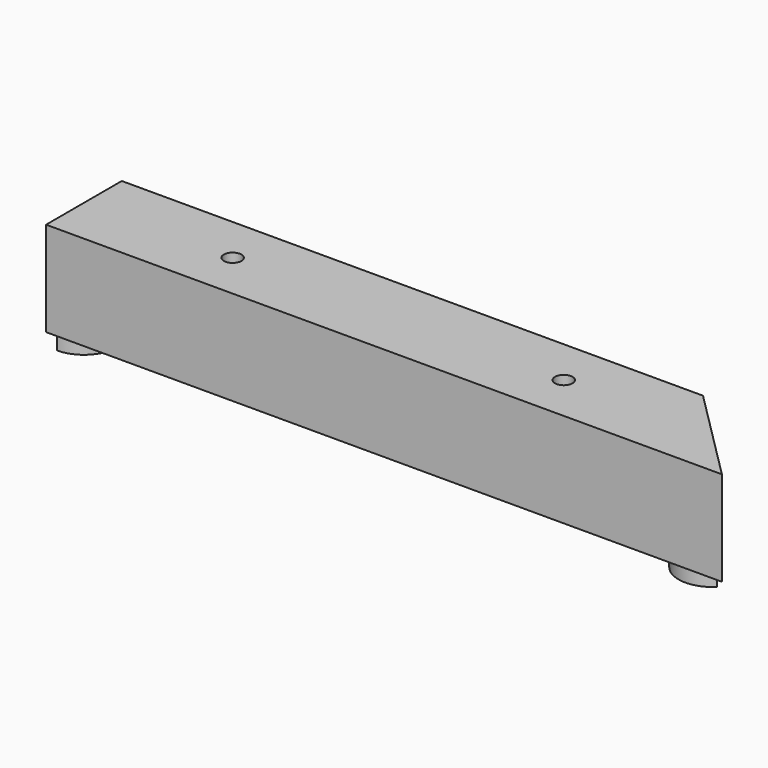
from build123d import *

# Parameters (mm, degrees)
F1_DEPTH = 35
F2_W     = 24
F2_H     = 24
F3_DEPTH = 25.5
F5_D     = 6.5
F5_DEPTH = 35
F5_TIP   = 1.9527970118
F7_DEPTH = 8
F9_DEPTH = 8


with BuildPart() as f1:
    # F0 (on Top) → F1 (new body)
    with BuildSketch(Plane.XY):
        Polygon((-125, -17.5), (125, -17.5), (90, 17.5), (-125, 17.5), align=None)
    extrude(amount=F1_DEPTH)

    # F2 (on face) → F3 (cut)
    with BuildSketch(Plane(origin=(-125, 0, 0), x_dir=(0, -1, 0), z_dir=(-1, 0, 0))):
        with Locations((0, 17.5)):
            Rectangle(F2_W, F2_H)
    extrude(amount=-F3_DEPTH, mode=Mode.SUBTRACT)

    # F5
    with Locations(Plane.XY.offset(35)):
        with Locations((52.5, 0), (-70, 0)):
            Hole(F5_D / 2, depth=F5_DEPTH)
            with Locations((0, 0, -(F5_DEPTH + F5_TIP / 2))):  # 118° drill point
                Cone(0, F5_D / 2, F5_TIP, mode=Mode.SUBTRACT)

    # F6 (on face) → F7 (join)
    with BuildSketch(Plane(origin=(0, 0, 0), x_dir=(1, 0, 0), z_dir=(0, 0, -1))):
        with BuildLine():
            Line((98.6611652352, -8.8388347648), (116.3388347648, 8.8388347648))
            ThreePointArc((116.3388347648, 8.8388347648), (98.6611652352, 8.8388347648), (98.6611652352, -8.8388347648))
        make_face()
    extrude(amount=F7_DEPTH)

    # F8 (on face) → F9 (join)
    with BuildSketch(Plane(origin=(0, 0, 0), x_dir=(1, 0, 0), z_dir=(0, 0, -1))):
        with BuildLine():
            ThreePointArc((-125, -12.5), (-116.1611652352, -8.8388347648), (-112.5, 0))
            ThreePointArc((-112.5, 0), (-116.1611652352, 8.8388347648), (-125, 12.5))
            Line((-125, 12.5), (-125, -12.5))
        make_face()
    extrude(amount=F9_DEPTH)


solid = f1.part
